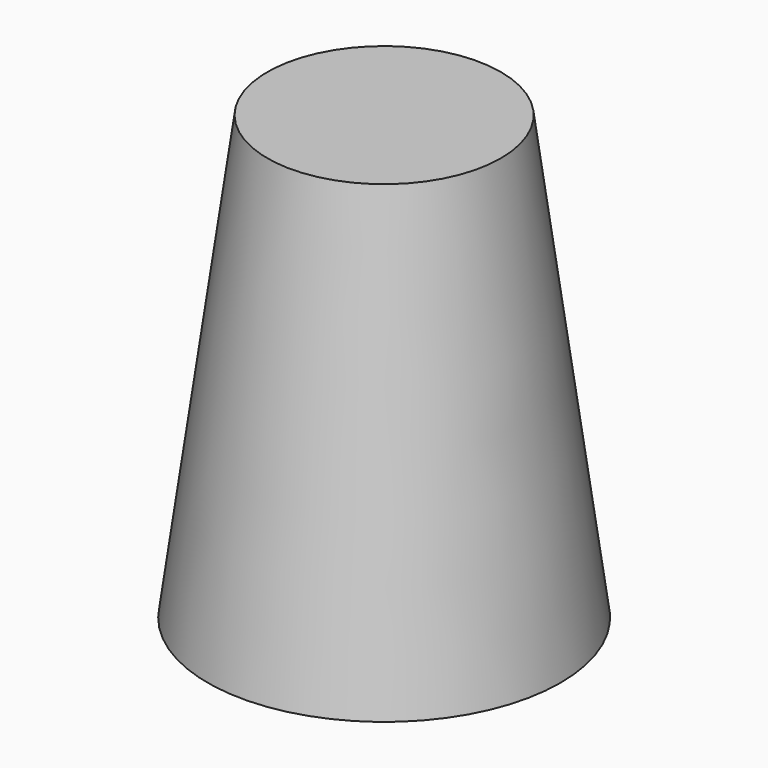
from build123d import *

# Parameters (mm, degrees)
F3_D           = 34.12998
F3_DEPTH       = 55
F3_CBORE_D     = 38.1
F3_CBORE_DEPTH = 8
F3_TIP         = 10.2536804551


with BuildPart() as f1:
    # F0 (on Front) → F1 (revolve)
    with BuildSketch(Plane.XZ):
        Polygon((47, -3), (47, 0), (71, 0), (47, 178), (0, 178), (0, 0), (0, -3), align=None)
    revolve(axis=Axis((0, 0, 89), (0, 0, 1)))

    # F3
    with Locations(Plane(origin=(0, 0, -3), x_dir=(1, 0, 0), z_dir=(0, 0, -1))):
        with Locations((0, 0)):
            CounterBoreHole(F3_D / 2, F3_CBORE_D / 2, F3_CBORE_DEPTH, depth=F3_DEPTH)
            with Locations((0, 0, -(F3_DEPTH + F3_TIP / 2))):  # 118° drill point
                Cone(0, F3_D / 2, F3_TIP, mode=Mode.SUBTRACT)


solid = f1.part
